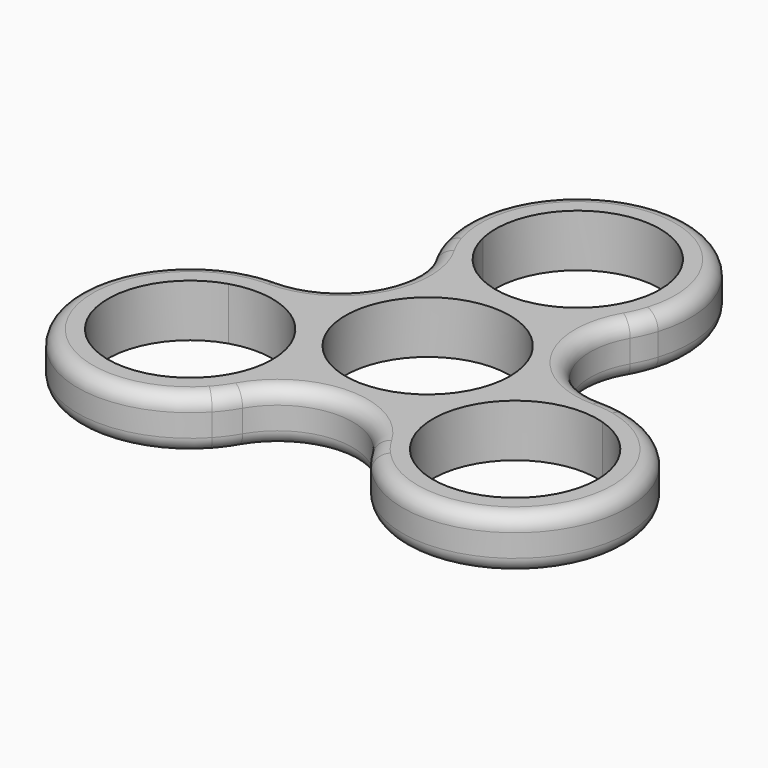
from build123d import *

# Parameters (mm, degrees)
F0_R     = 10.95
F1_DEPTH = 7
F2_R     = 2


with BuildPart() as f1:
    # F0 (on Top) → F1 (new body)
    with BuildSketch(Plane.XY):
        with BuildLine():
            ThreePointArc((-10.6841872034, 22.60195), (-1.2063685429, 35.8833439226), (10.95, 25))
            ThreePointArc((10.95, 25), (10.8833439226, 23.7936314571), (10.6841872034, 22.60195))
            ThreePointArc((10.6841872034, 22.60195), (12.5407535684, 21.6270548142), (14.3090880213, 20.5))
            ThreePointArc((14.3090880213, 20.5), (0, 40), (-14.3090880213, 20.5))
            ThreePointArc((-14.3090880213, 20.5), (-12.5407535684, 21.6270548142), (-10.6841872034, 22.60195))
        make_face()
        with BuildLine():
            ThreePointArc((10.6841872034, 22.60195), (0, 14.05), (-10.6841872034, 22.60195))
            ThreePointArc((-10.6841872034, 22.60195), (-12.5407535684, 21.6270548142), (-14.3090880213, 20.5))
            ThreePointArc((-14.3090880213, 20.5), (-13.7319063857, 18.9638798045), (-12.9903810568, 17.5))
            ThreePointArc((-12.9903810568, 17.5), (-12.9903810568, 7.5), (-21.6506350946, 2.5))
            ThreePointArc((-21.6506350946, 2.5), (-23.2891548579, 2.4102398702), (-24.9080647882, 2.1420337314))
            ThreePointArc((-24.9080647882, 2.1420337314), (-24.9999556623, 0.0470837658), (-24.9159564768, -2.0481974631))
            ThreePointArc((-24.9159564768, -2.0481974631), (-15.1642173288, -3.6779319563), (-10.7006350946, -12.5))
            ThreePointArc((-10.7006350946, -12.5), (-11.622198508, -16.8969261568), (-14.2317692734, -20.5537525369))
            ThreePointArc((-14.2317692734, -20.5537525369), (-12.4592020939, -21.67413858), (-10.598976767, -22.6420337314))
            ThreePointArc((-10.598976767, -22.6420337314), (-9.5572484722, -21.3741196746), (-8.6602540378, -20))
            ThreePointArc((-8.6602540378, -20), (0, -15), (8.6602540378, -20))
            ThreePointArc((8.6602540378, -20), (9.5572484722, -21.3741196746), (10.598976767, -22.6420337314))
            ThreePointArc((10.598976767, -22.6420337314), (12.4592020939, -21.67413858), (14.2317692734, -20.5537525369))
            ThreePointArc((14.2317692734, -20.5537525369), (12.1676569232, -7.025), (24.9159564768, -2.0481974631))
            ThreePointArc((24.9159564768, -2.0481974631), (24.9789802826, -1.0249605067), (25, 0))
            ThreePointArc((25, 0), (24.9770056222, 1.0720028673), (24.9080647882, 2.1420337314))
            ThreePointArc((24.9080647882, 2.1420337314), (23.2891548579, 2.4102398702), (21.6506350946, 2.5))
            ThreePointArc((21.6506350946, 2.5), (12.9903810568, 7.5), (12.9903810568, 17.5))
            ThreePointArc((12.9903810568, 17.5), (13.7319063857, 18.9638798045), (14.3090880213, 20.5))
            ThreePointArc((14.3090880213, 20.5), (12.5407535684, 21.6270548142), (10.6841872034, 22.60195))
        make_face()
        Circle(F0_R, mode=Mode.SUBTRACT)
        with BuildLine():
            ThreePointArc((-24.9159564768, -2.0481974631), (-24.9999556623, 0.0470837658), (-24.9080647882, 2.1420337314))
            ThreePointArc((-24.9080647882, 2.1420337314), (-34.6410161514, -20), (-10.598976767, -22.6420337314))
            ThreePointArc((-10.598976767, -22.6420337314), (-12.4592020939, -21.67413858), (-14.2317692734, -20.5537525369))
            ThreePointArc((-14.2317692734, -20.5537525369), (-31.1336132661, -17.975), (-24.9159564768, -2.0481974631))
        make_face()
        with BuildLine():
            ThreePointArc((10.598976767, -22.6420337314), (34.6410161514, -20), (24.9080647882, 2.1420337314))
            ThreePointArc((24.9080647882, 2.1420337314), (24.9770056222, 1.0720028673), (25, 0))
            ThreePointArc((25, 0), (24.9789802826, -1.0249605067), (24.9159564768, -2.0481974631))
            ThreePointArc((24.9159564768, -2.0481974631), (30.4727031383, -6.0135822342), (32.6006350946, -12.5))
            ThreePointArc((32.6006350946, -12.5), (26.0475612514, -22.5284365866), (14.2317692734, -20.5537525369))
            ThreePointArc((14.2317692734, -20.5537525369), (12.4592020939, -21.67413858), (10.598976767, -22.6420337314))
        make_face()
    extrude(amount=F1_DEPTH)

    # F2
    f2_edges = [f1.edges().sort_by_distance(p)[0] for p in [
        (-34.641016, -20, 7),
        (-34.641016, -20, 0),
    ]]
    fillet(f2_edges, radius=F2_R)


solid = f1.part
